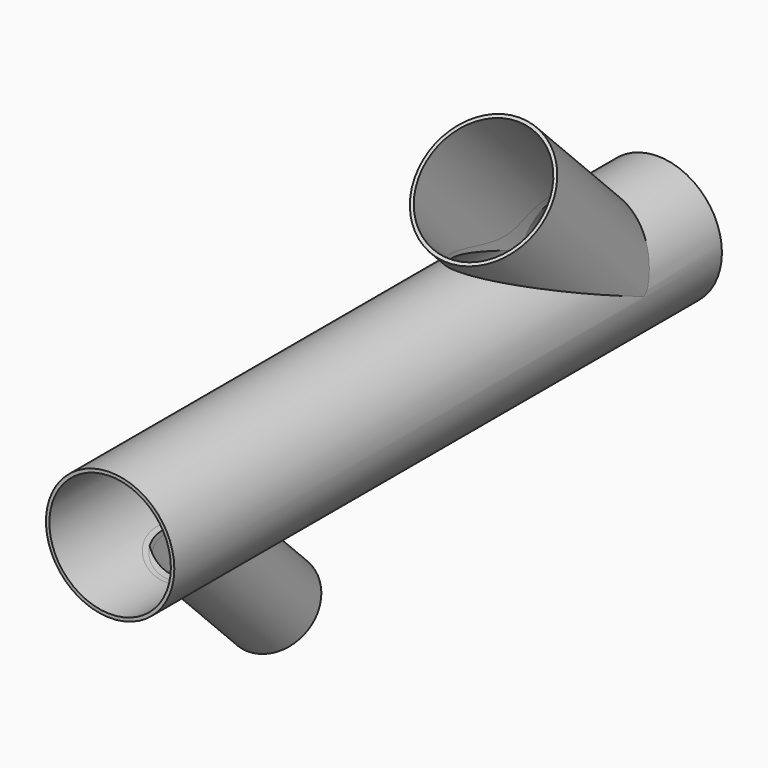
from build123d import *

# Parameters (mm, degrees)
F0_R      = 37.5
F0_R_2    = 35.5
F1_DEPTH  = 400
F6_R      = 35.5
F7_DEPTH  = 400.0010001
F8_R      = 35.5
F9_DEPTH  = 100
F10_R     = 23
F11_DEPTH = 80


with BuildPart() as f1:
    # F0 (on Front) → F1 (new body)
    with BuildSketch(Plane.XZ):
        Circle(F0_R)
        Circle(F0_R_2, mode=Mode.SUBTRACT)
    extrude(amount=F1_DEPTH)

    # F2 (on Right) → F3 (revolve)
    with BuildSketch(Plane.YZ):
        Polygon((-31.4142135624, 26.0857864376), (-30, 27.5), (-100.7106781187, 98.2106781187), (-102.124891681, 96.7964645563), align=None)
    revolve(axis=Axis((0, -63.697329879, 8.16432129), (0, 0.7071067812, -0.7071067812)))

    # F4 (on Right) → F5 (revolve)
    with BuildSketch(Plane.YZ):
        Polygon((-368.5857864376, -23.5857864376), (-370, -25), (-299.2893218813, -95.7106781187), (-297.875108319, -94.2964645563), align=None)
    revolve(axis=Axis((0, -311.658299518, -47.9863614227), (0, 0.7071067812, -0.7071067812)))

    # F6 (on Front) → F7 (cut, through all)
    with BuildSketch(Plane.XZ):
        Circle(F6_R)
    extrude(amount=F7_DEPTH, mode=Mode.SUBTRACT)

    # F8 (on face) → F9 (cut)
    with BuildSketch(Plane(origin=(0, -99.4606781187, 99.4606781187), x_dir=(1, 0, 0), z_dir=(0, -0.7071067812, 0.7071067812))):
        with Locations((0, -39.267766953)):
            Circle(F8_R)
    extrude(amount=-F9_DEPTH, mode=Mode.SUBTRACT)

    # F10 (on face) → F11 (cut)
    with BuildSketch(Plane(origin=(0, -101.7893218813, 101.7893218813), x_dir=(-1, 0, 0), z_dir=(0, 0.7071067812, -0.7071067812))):
        with Locations((0, -254.3071785687)):
            Circle(F10_R)
    extrude(amount=-F11_DEPTH, mode=Mode.SUBTRACT)


solid = f1.part
